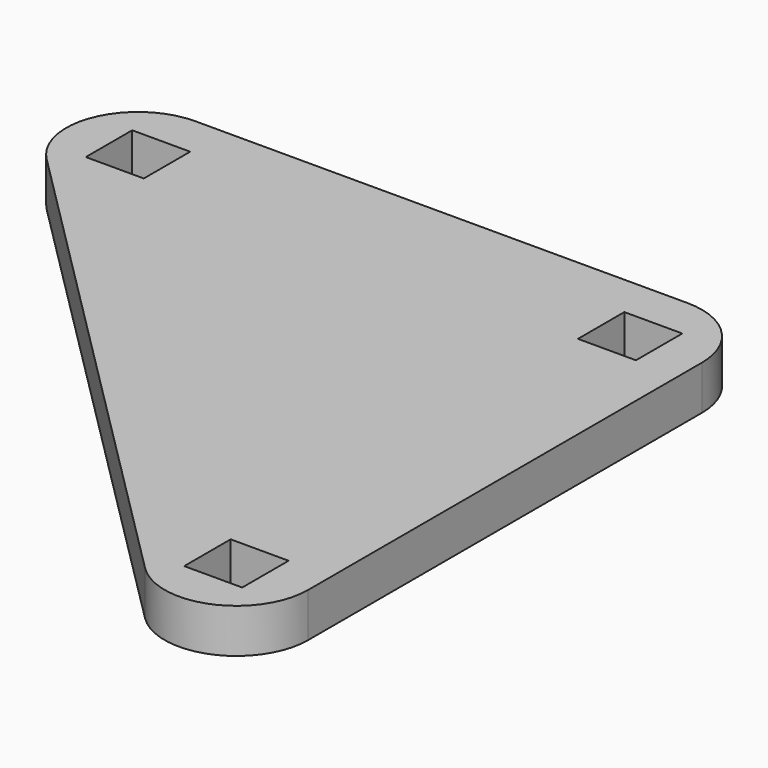
from build123d import *

# Parameters (mm, degrees)
F0_W     = 4.490128
F0_H     = 4.490128
F1_DEPTH = 3.41884


with BuildPart() as f1:
    # F0 (on Top) → F1 (new body)
    with BuildSketch(Plane.XY):
        with BuildLine():
            Line((5.55625, 0), (5.55625, 38.1))
            ThreePointArc((5.55625, 38.1), (3.928862, 42.028862), (0, 43.65625))
            Line((0, 43.65625), (-38.1, 43.65625))
            ThreePointArc((-38.1, 43.65625), (-43.233306, 40.226285), (-42.028862, 34.171138))
            Line((-42.028862, 34.171138), (-3.928862, -3.928862))
            ThreePointArc((-3.928862, -3.928862), (2.126285, -5.133306), (5.55625, 0))
        make_face()
        Rectangle(F0_W, F0_H, mode=Mode.SUBTRACT)
        with Locations((-38.1, 38.1)):
            Rectangle(F0_W, F0_H, mode=Mode.SUBTRACT)
        with Locations((0, 38.1)):
            Rectangle(F0_W, F0_H, mode=Mode.SUBTRACT)
    extrude(amount=F1_DEPTH)


solid = f1.part
